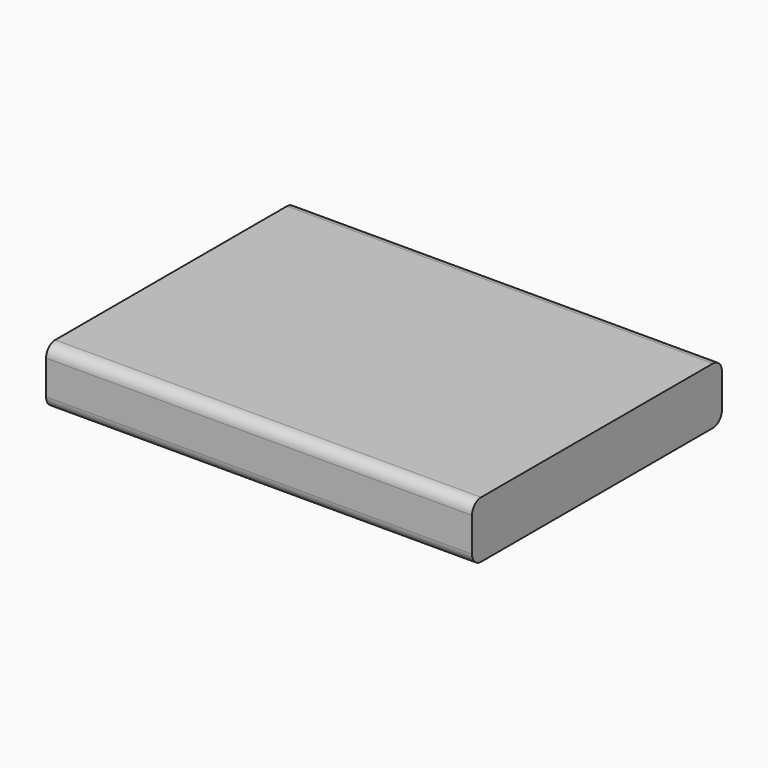
from build123d import *

# Parameters (mm, degrees)
SKETCH_W  = 75
SKETCH_H  = 55
PAD_DEPTH = 10
FILLET_R  = 2


with BuildPart() as part:
    # Sketch → Pad (new body)
    with BuildSketch(Plane.XY):
        Rectangle(SKETCH_W, SKETCH_H)
    extrude(amount=PAD_DEPTH)

    # Fillet
    fillet_edges = [part.edges().sort_by_distance(p)[0] for p in [
        (0, -27.5, 10),
        (0, -27.5, 0),
        (0, 27.5, 10),
        (0, 27.5, 0),
    ]]
    fillet(fillet_edges, radius=FILLET_R)


solid = part.part
